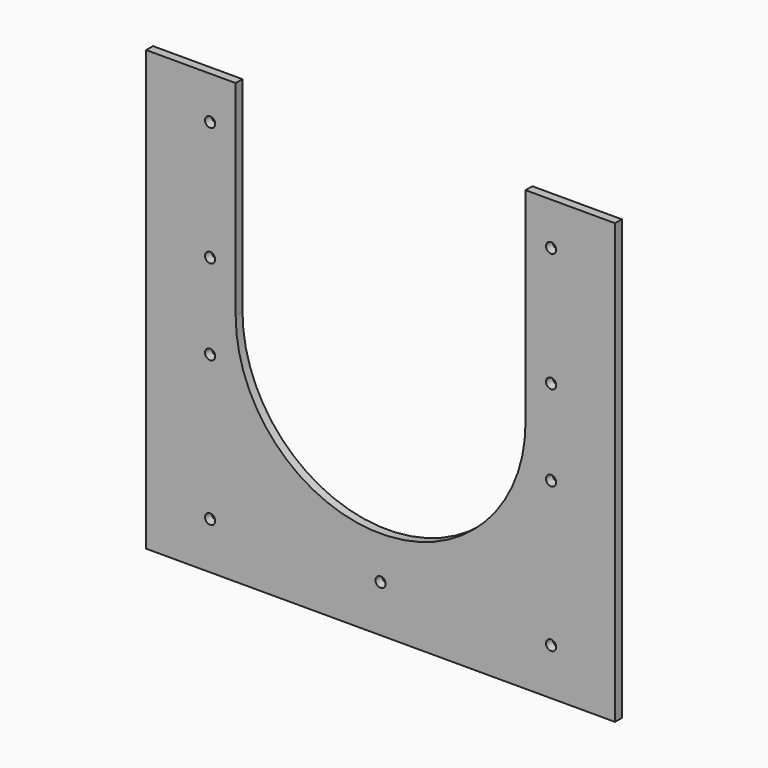
from build123d import *

# Parameters (mm, degrees)
SKETCH005_R      = 6
EXTRUDE004_DEPTH = 10
EXTRUDE003_DEPTH = 10
SKETCH003_W      = 550
SKETCH003_H      = 10
EXTRUDE002_DEPTH = 515


with BuildPart() as extrude004:
    # Sketch005 (on Face1 of Cut004) → Extrude004 (new body)
    with BuildSketch(Plane.XZ.offset(1530.409781)):
        with Locations((-200, 1910)):
            Circle(SKETCH005_R)
        with Locations((-200, 2050)):
            Circle(SKETCH005_R)
        with Locations((199.999995, 2050.062867)):
            Circle(SKETCH005_R)
        with Locations((199.999995, 1910.171143)):
            Circle(SKETCH005_R)
        with Locations((-200, 1810)):
            Circle(SKETCH005_R)
        with Locations((-200, 1640)):
            Circle(SKETCH005_R)
        with Locations((199.999956, 1809.813235)):
            Circle(SKETCH005_R)
        with Locations((199.999956, 1639.813235)):
            Circle(SKETCH005_R)
        with Locations((0, 1640)):
            Circle(SKETCH005_R)
    extrude(amount=-EXTRUDE004_DEPTH)


with BuildPart() as extrude003:
    # Sketch004 (on Face1 of Extrude002) → Extrude003 (new body)
    with BuildSketch(Plane.XZ.offset(1530.409781)):
        with BuildLine():
            Line((-170, 2100), (-170, 1860))
            ThreePointArc((-170, 1860), (-1.9e-05, 1690), (170, 1859.999962))
            Line((170, 1859.999962), (170, 2100))
            Line((170, 2100), (-170, 2100))
        make_face()
    extrude(amount=-EXTRUDE003_DEPTH)


with BuildPart() as cut005:
    # Sketch003 (on Face6 of Extrude001) → Extrude002 (new body)
    with BuildSketch(Plane.XY.offset(1585)):
        with Locations((0, -1525.409781)):
            Rectangle(SKETCH003_W, SKETCH003_H)
    extrude(amount=EXTRUDE002_DEPTH)

    # Cut004: cut Extrude003
    add(extrude003.part, mode=Mode.SUBTRACT)

    # Cut005: cut Extrude004
    add(extrude004.part, mode=Mode.SUBTRACT)


solid = cut005.part
